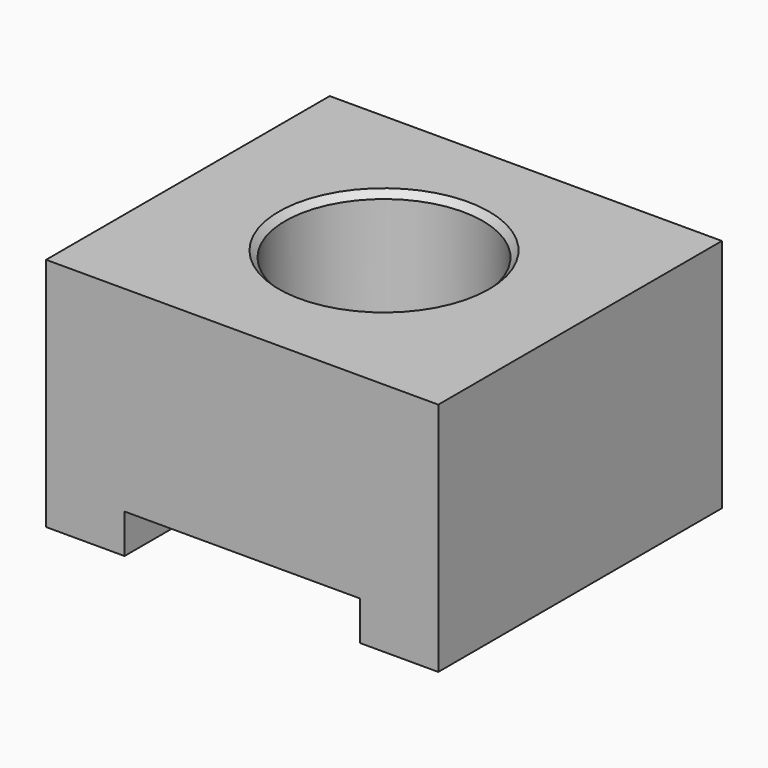
from build123d import *

# Parameters (mm, degrees)
F0_W     = 15.875
F0_H     = 14.35001
F0_R     = 2.15265
F1_DEPTH = 1.5875
F2_W     = 15.875
F2_H     = 14.35001
F2_R     = 4
F3_DEPTH = 6.35
F4_SIZE  = 0.254
F5_W     = 3.175
F5_H     = 14.35001
F6_DEPTH = 1.5875


with BuildPart() as f1:
    # F0 (on Top) → F1 (new body)
    with BuildSketch(Plane.XY):
        Rectangle(F0_W, F0_H)
        Circle(F0_R, mode=Mode.SUBTRACT)
    extrude(amount=F1_DEPTH)

    # F2 (on face) → F3 (join)
    with BuildSketch(Plane.XY.offset(1.5875)):
        Rectangle(F2_W, F2_H)
        Circle(F2_R, mode=Mode.SUBTRACT)
    extrude(amount=F3_DEPTH)

    # F4
    f4_edges = [f1.edges().sort_by_distance(p)[0] for p in [
        (-4, 0, 7.9375),
    ]]
    chamfer(f4_edges, length=F4_SIZE)

    # F5 (on face) → F6 (join)
    with BuildSketch(Plane(origin=(0, 0, 0), x_dir=(1, 0, 0), z_dir=(0, 0, -1))):
        with Locations((-6.35, 0)):
            Rectangle(F5_W, F5_H)
        with Locations((6.35, 0)):
            Rectangle(F5_W, F5_H)
    extrude(amount=F6_DEPTH)


solid = f1.part
